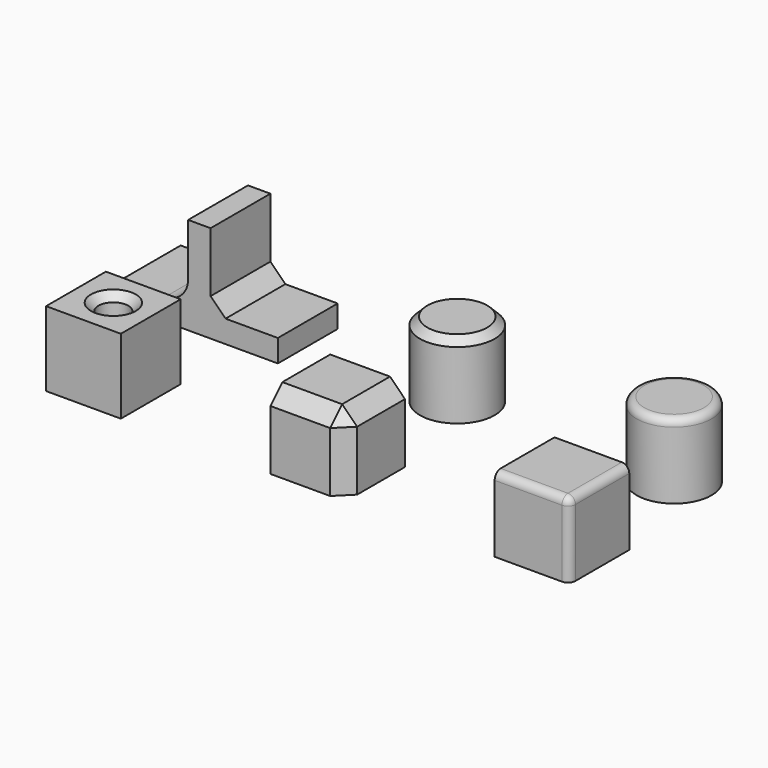
from build123d import *

# Parameters (mm, degrees)
BOX002_W          = 10
BOX002_H          = 10
BOX002_DEPTH      = 10
FILLET_R          = 1
BOX001_W          = 10
BOX001_H          = 10
BOX001_DEPTH      = 10
CHAMFER_SIZE      = 2
CYLINDER002_R     = 2
CYLINDER002_DEPTH = 12
BOX_W             = 10
BOX_H             = 10
BOX_DEPTH         = 10
CHAMFER001_SIZE   = 1
CYLINDER_R        = 5
CYLINDER_DEPTH    = 10
FILLET001_R       = 1
CYLINDER001_R     = 5
CYLINDER001_DEPTH = 10
CHAMFER002_SIZE   = 1
BOX004_W          = 3
BOX004_H          = 10
BOX004_DEPTH      = 10
BOX003_W          = 21
BOX003_H          = 10
BOX003_DEPTH      = 3
CHAMFER003_SIZE   = 2
FILLET002_R       = 3


with BuildPart() as obj1:
    # Box002 → Box002 (new body)
    with BuildSketch(Plane(origin=(60, 0, 0), x_dir=(1, 0, 0), z_dir=(0, 0, 1))):
        with Locations((5, 5)):
            Rectangle(BOX002_W, BOX002_H)
    extrude(amount=BOX002_DEPTH)

    # Fillet
    fillet_edges = [obj1.edges().sort_by_distance(p)[0] for p in [
        (70, 0, 5),
        (70, 5, 10),
        (65, 0, 10),
    ]]
    fillet(fillet_edges, radius=FILLET_R)


with BuildPart() as chamfer_body:
    # Box001 → Box001 (new body)
    with BuildSketch(Plane(origin=(30, 0, 0), x_dir=(1, 0, 0), z_dir=(0, 0, 1))):
        with Locations((5, 5)):
            Rectangle(BOX001_W, BOX001_H)
    extrude(amount=BOX001_DEPTH)

    # Chamfer
    chamfer_edges = [chamfer_body.edges().sort_by_distance(p)[0] for p in [
        (40, 0, 5),
        (40, 5, 10),
        (35, 0, 10),
    ]]
    chamfer(chamfer_edges, length=CHAMFER_SIZE)


with BuildPart() as cylinder002:
    # Cylinder002 → Cylinder002 (new body)
    with BuildSketch(Plane(origin=(5, 5, -1), x_dir=(1, 0, 0), z_dir=(0, 0, 1))):
        Circle(CYLINDER002_R)
    extrude(amount=CYLINDER002_DEPTH)


with BuildPart() as chamfer001:
    # Box → Box (new body)
    with BuildSketch(Plane.XY):
        with Locations((5, 5)):
            Rectangle(BOX_W, BOX_H)
    extrude(amount=BOX_DEPTH)

    # Cut: cut Cylinder002
    add(cylinder002.part, mode=Mode.SUBTRACT)

    # Chamfer001
    chamfer001_edges = [chamfer001.edges().sort_by_distance(p)[0] for p in [
        (3, 5, 10),
    ]]
    chamfer(chamfer001_edges, length=CHAMFER001_SIZE)


with BuildPart() as fillet001:
    # Cylinder → Cylinder (new body)
    with BuildSketch(Plane(origin=(64, 25, 0), x_dir=(1, 0, 0), z_dir=(0, 0, 1))):
        Circle(CYLINDER_R)
    extrude(amount=CYLINDER_DEPTH)

    # Fillet001
    fillet001_edges = [fillet001.edges().sort_by_distance(p)[0] for p in [
        (59, 25, 10),
    ]]
    fillet(fillet001_edges, radius=FILLET001_R)


with BuildPart() as chamfer002:
    # Cylinder001 → Cylinder001 (new body)
    with BuildSketch(Plane(origin=(35, 25, 0), x_dir=(1, 0, 0), z_dir=(0, 0, 1))):
        Circle(CYLINDER001_R)
    extrude(amount=CYLINDER001_DEPTH)

    # Chamfer002
    chamfer002_edges = [chamfer002.edges().sort_by_distance(p)[0] for p in [
        (30, 25, 10),
    ]]
    chamfer(chamfer002_edges, length=CHAMFER002_SIZE)


with BuildPart() as cube004:
    # Box004 → Box004 (new body)
    with BuildSketch(Plane(origin=(3, 20, 3), x_dir=(1, 0, 0), z_dir=(0, 0, 1))):
        with Locations((1.5, 5)):
            Rectangle(BOX004_W, BOX004_H)
    extrude(amount=BOX004_DEPTH)


with BuildPart() as obj2:
    # Box003 → Box003 (new body)
    with BuildSketch(Plane(origin=(-6, 20, 0), x_dir=(1, 0, 0), z_dir=(0, 0, 1))):
        with Locations((10.5, 5)):
            Rectangle(BOX003_W, BOX003_H)
    extrude(amount=BOX003_DEPTH)

    # Fusion: union Cube004
    add(cube004.part)

    # Chamfer003
    chamfer003_edges = [obj2.edges().sort_by_distance(p)[0] for p in [
        (6, 25, 3),
    ]]
    chamfer(chamfer003_edges, length=CHAMFER003_SIZE)

    # Fillet002
    fillet002_edges = [obj2.edges().sort_by_distance(p)[0] for p in [
        (3, 25, 3),
    ]]
    fillet(fillet002_edges, radius=FILLET002_R)


solid = Compound([obj1.part, chamfer_body.part, chamfer001.part, fillet001.part, chamfer002.part, obj2.part])
